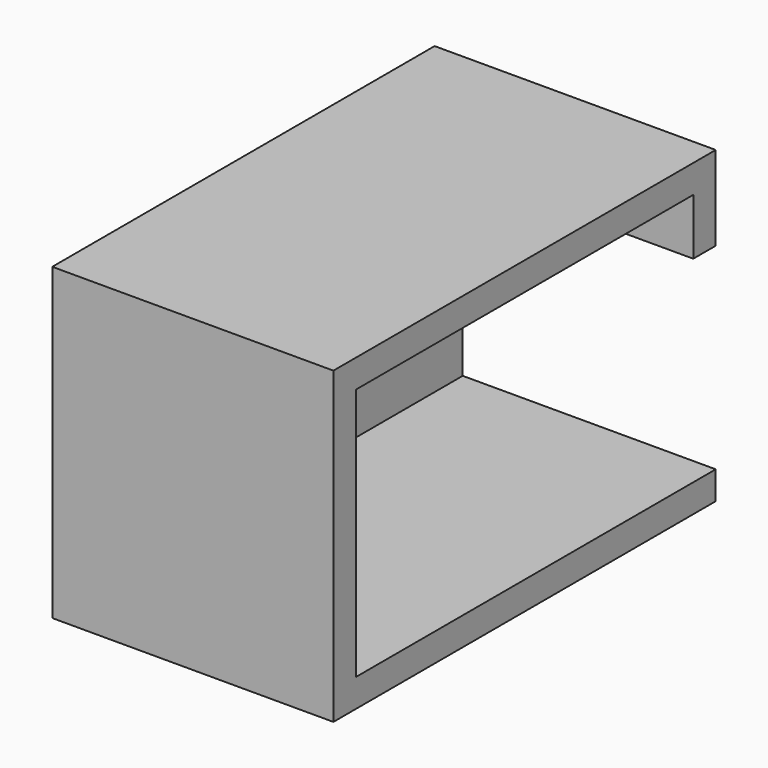
from build123d import *

# Parameters (mm, degrees)
BOX052_W     = 10
BOX052_H     = 17
BOX052_DEPTH = 1
BOX024_W     = 9
BOX024_H     = 1
BOX024_DEPTH = 2
BOX022_W     = 1
BOX022_H     = 16
BOX022_DEPTH = 9
BOX021_W     = 10
BOX021_H     = 1
BOX021_DEPTH = 9
BOX025_W     = 10
BOX025_H     = 17
BOX025_DEPTH = 1


with BuildPart() as box052:
    # Box052 → Box052 (new body)
    with BuildSketch(Plane(origin=(-10, 8, 0), x_dir=(1, 0, 0), z_dir=(0, 0, 1))):
        with Locations((5, 8.5)):
            Rectangle(BOX052_W, BOX052_H)
    extrude(amount=BOX052_DEPTH)


with BuildPart() as box024:
    # Box024 → Box024 (new body)
    with BuildSketch(Plane(origin=(-9, 24, 7), x_dir=(1, 0, 0), z_dir=(0, 0, 1))):
        with Locations((4.5, 0.5)):
            Rectangle(BOX024_W, BOX024_H)
    extrude(amount=BOX024_DEPTH)


with BuildPart() as box022:
    # Box022 → Box022 (new body)
    with BuildSketch(Plane(origin=(-10, 9, 0), x_dir=(1, 0, 0), z_dir=(0, 0, 1))):
        with Locations((0.5, 8)):
            Rectangle(BOX022_W, BOX022_H)
    extrude(amount=BOX022_DEPTH)


with BuildPart() as box021:
    # Box021 → Box021 (new body)
    with BuildSketch(Plane(origin=(-10, 8, 0), x_dir=(1, 0, 0), z_dir=(0, 0, 1))):
        with Locations((5, 0.5)):
            Rectangle(BOX021_W, BOX021_H)
    extrude(amount=BOX021_DEPTH)


with BuildPart() as fusion024:
    # Box025 → Box025 (new body)
    with BuildSketch(Plane(origin=(-10, 8, 9), x_dir=(1, 0, 0), z_dir=(0, 0, 1))):
        with Locations((5, 8.5)):
            Rectangle(BOX025_W, BOX025_H)
    extrude(amount=BOX025_DEPTH)

    # Fusion010: union Box024, Box022, Box021
    add(box024.part)
    add(box022.part)
    add(box021.part)


with BuildPart() as fusion024_1:
    # Fusion010 placement: moved
    add(fusion024.part.moved(Location((0, 0, 1))))

    # Fusion024: union Box052
    add(box052.part)


solid = fusion024_1.part
